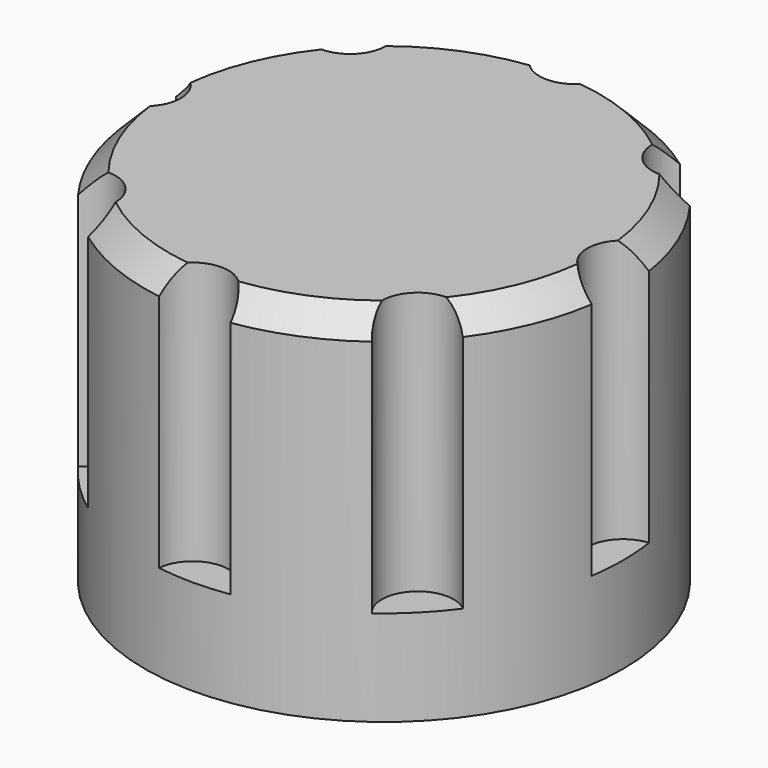
from build123d import *

# Parameters (mm, degrees)
CYLINDER001_R     = 1.5
CYLINDER001_DEPTH = 20
ARRAY_COUNT       = 8
CYLINDER_R        = 10
CYLINDER_DEPTH    = 15
CHAMFER_SIZE      = 1


with BuildPart() as array:
    # Cylinder001 → Cylinder001 (new body)
    with BuildSketch(Plane.XY.offset(4)):
        Circle(CYLINDER001_R)
    extrude(amount=CYLINDER001_DEPTH)

    # Array: Array ×8 about axis
    array_axis = Axis((10, 0, 0), (0, 0, 1))


with BuildPart() as array_1:
    add(array.part)
    for i in range(1, ARRAY_COUNT):
        add(array.part.rotate(array_axis, i * 360 / ARRAY_COUNT))


with BuildPart() as array_2:
    # Array placement: moved
    add(array_1.part.moved(Location((-10, 0, 0))))


with BuildPart() as chamfer_body:
    # Cylinder → Cylinder (new body)
    with BuildSketch(Plane.XY):
        Circle(CYLINDER_R)
    extrude(amount=CYLINDER_DEPTH)

    # Cut: cut Array
    add(array_2.part, mode=Mode.SUBTRACT)

    # Chamfer
    chamfer_edges = [chamfer_body.edges().sort_by_distance(p)[0] for p in [
        (9.238795, -3.826834, 15),
        (3.826834, -9.238795, 15),
        (-3.826834, -9.238795, 15),
        (-9.238795, -3.826834, 15),
        (-9.238795, 3.826834, 15),
        (-3.826834, 9.238795, 15),
        (3.826834, 9.238795, 15),
        (9.238795, 3.826834, 15),
    ]]
    chamfer(chamfer_edges, length=CHAMFER_SIZE)


solid = chamfer_body.part
